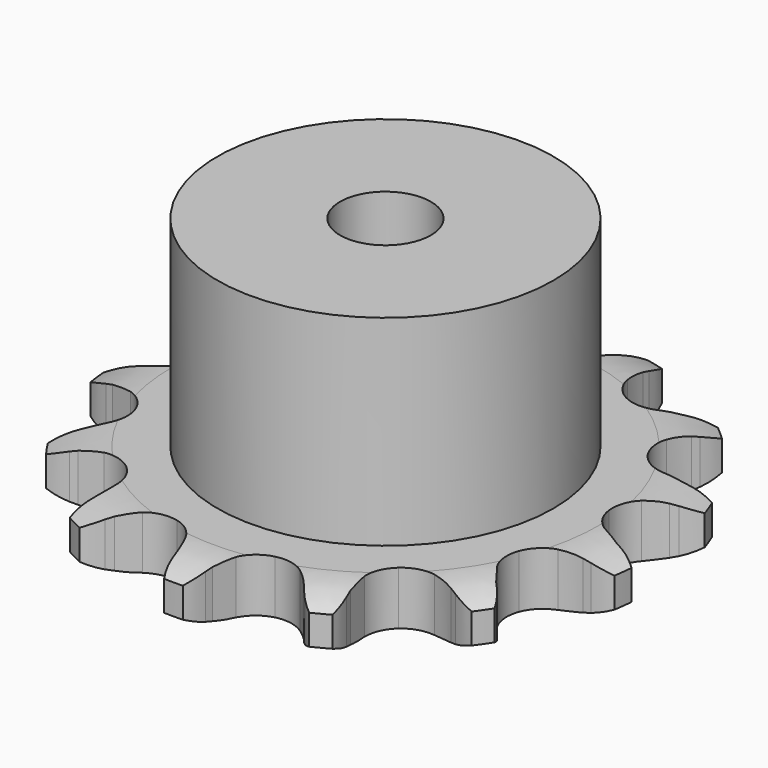
from build123d import *

# Parameters (mm, degrees)
PAD_DEPTH         = 5.9
SKETCH001_R       = 18.5
PAD001_DEPTH      = 28
SKETCH002_R       = 5
POCKET_DEPTH      = 0.0010001
POCKET_DEPTH_BACK = 28.001


with BuildPart() as part:
    # Sprocket → Pad (new body)
    with BuildSketch(Plane.XY):
        with BuildLine():
            ThreePointArc((-7.2883651048, 29.5700596196), (-5.7787429586, 28.3698168407), (-4.6876669733, 26.7795039951))
            Line((-4.6876669733, 26.7795039951), (-4.3368425965, 26.0577496804))
            ThreePointArc((-4.3368425965, 26.0577496804), (-3.7438457459, 25.0030333936), (-3.029350888, 24.0265249151))
            ThreePointArc((-3.029350888, 24.0265249151), (-1.6738886932, 22.9755578023), (0, 22.6015173273))
            ThreePointArc((0, 22.6015173273), (1.6738886932, 22.9755578023), (3.029350888, 24.0265249151))
            ThreePointArc((3.029350888, 24.0265249151), (3.7438457459, 25.0030333936), (4.3368425965, 26.0577496804))
            Line((4.3368425965, 26.0577496804), (4.6876669733, 26.7795039951))
            ThreePointArc((4.6876669733, 26.7795039951), (5.7787429586, 28.3698168407), (7.2883651048, 29.5700596196))
            ThreePointArc((7.2883651048, 29.5700596196), (8.0672884991, 27.8057410264), (8.2943330746, 25.8905406418))
            Line((8.2943330746, 25.8905406418), (8.2695566784, 25.0884227176))
            ThreePointArc((8.2695566784, 25.0884227176), (8.3044782145, 23.8789384487), (8.4833258741, 22.6822408155))
            ThreePointArc((8.4833258741, 22.6822408155), (9.1951192717, 21.1217409619), (10.5034488253, 20.0126497063))
            ThreePointArc((10.5034488253, 20.0126497063), (12.159428931, 19.5659512356), (13.8480398694, 19.8666217077))
            Line((13.8480398694, 19.8666217077), (15.9497234972, 21.0575602214))
            ThreePointArc((15.9497234972, 21.0575602214), (16.2680365045, 21.3019814928), (16.5957790101, 21.5336057112))
            ThreePointArc((16.5957790101, 21.5336057112), (18.3009340459, 22.4347095101), (20.1954187031, 22.7959153186))
            ThreePointArc((20.1954187031, 22.7959153186), (20.065201383, 20.8717050385), (19.3762013727, 19.0703664423))
            Line((19.3762013727, 19.0703664423), (18.9815001773, 18.3716404585))
            ThreePointArc((18.9815001773, 18.3716404585), (18.4503462959, 17.2844664776), (18.0525749137, 16.1417286957))
            ThreePointArc((18.0525749137, 16.1417286957), (17.9576362247, 14.4291878117), (18.6006841051, 12.8391252163))
            ThreePointArc((18.6006841051, 12.8391252163), (19.8593905377, 11.6740210362), (21.4943098036, 11.1555148858))
            Line((21.4943098036, 11.1555148858), (23.9087149597, 11.2333374867))
            ThreePointArc((23.9087149597, 11.2333374867), (24.3041553586, 11.3018343439), (24.7019980766, 11.3546178669))
            ThreePointArc((24.7019980766, 11.3546178669), (26.6306016934, 11.3600805983), (28.4759452577, 10.7995015387))
            ThreePointArc((28.4759452577, 10.7995015387), (27.466418442, 9.1562129576), (26.0192154448, 7.8814011137))
            Line((26.0192154448, 7.8814011137), (25.3450107374, 7.4461367726))
            ThreePointArc((25.3450107374, 7.4461367726), (24.3694623916, 6.7303315368), (23.4861965976, 5.9033410606))
            ThreePointArc((23.4861965976, 5.9033410606), (22.6062751315, 4.4310816245), (22.4367268189, 2.7243118674))
            ThreePointArc((22.4367268189, 2.7243118674), (23.0098051039, 1.1077133046), (24.2164923964, -0.111185958))
            Line((24.2164923964, -0.111185958), (26.3905079562, -1.1643074898))
            ThreePointArc((26.3905079562, -1.1643074898), (26.7724851169, -1.2874268513), (27.149287075, -1.4255760928))
            ThreePointArc((27.149287075, -1.4255760928), (28.8595194265, -2.3170058747), (30.2329759262, -3.6709478957))
            ThreePointArc((30.2329759262, -3.6709478957), (28.5754100421, -4.6568571676), (26.701540824, -5.1130982289))
            Line((26.701540824, -5.1130982289), (25.9022847781, -5.1851871123))
            ThreePointArc((25.9022847781, -5.1851871123), (24.7058283373, -5.3656412497), (23.5394136804, -5.6874308685))
            ThreePointArc((23.5394136804, -5.6874308685), (22.0760888409, -6.5821319627), (21.1327858103, -8.0146084988))
            ThreePointArc((21.1327858103, -8.0146084988), (20.8889506189, -9.7123581958), (21.3909684215, -11.3524154387))
            Line((21.3909684215, -11.3524154387), (22.82655362, -13.2952236518))
            ThreePointArc((22.82655362, -13.2952236518), (23.1075611783, -13.5817540701), (23.3770015889, -13.8791877496))
            ThreePointArc((23.3770015889, -13.8791877496), (24.4770690539, -15.4632942248), (25.0639961568, -17.3004274068))
            ThreePointArc((25.0639961568, -17.3004274068), (23.1381195726, -17.4030974369), (21.266864989, -16.9362483867))
            Line((21.266864989, -16.9362483867), (20.5256575325, -16.628647118))
            ThreePointArc((20.5256575325, -16.628647118), (19.3823867484, -16.2324102889), (18.2000347697, -15.9752809266))
            ThreePointArc((18.2000347697, -15.9752809266), (16.4885366425, -16.0874584404), (14.9875782503, -16.9174786444))
            ThreePointArc((14.9875782503, -16.9174786444), (13.9826892863, -18.30744548), (13.6650313703, -19.9929433538))
            Line((13.6650313703, -19.9929433538), (14.0333109392, -22.3803642999))
            ThreePointArc((14.0333109392, -22.3803642999), (14.1489734501, -22.7646651093), (14.2493267622, -23.1532447553))
            ThreePointArc((14.2493267622, -23.1532447553), (14.4872171417, -25.0671282209), (14.1531569218, -26.9665874918))
            ThreePointArc((14.1531569218, -26.9665874918), (12.4001647536, -26.1624978134), (10.9602066784, -24.8795081431))
            Line((10.9602066784, -24.8795081431), (10.4468495072, -24.2626844658))
            ThreePointArc((10.4468495072, -24.2626844658), (9.6186739385, -23.3805297527), (8.6912472274, -22.6033866474))
            ThreePointArc((8.6912472274, -22.6033866474), (7.1236594077, -21.9073420644), (5.4088971331, -21.9447583103))
            ThreePointArc((5.4088971331, -21.9447583103), (3.8731623479, -22.7085176335), (2.8086003137, -24.0533288877))
            Line((2.8086003137, -24.0533288877), (2.025205842, -26.3384331996))
            ThreePointArc((2.025205842, -26.3384331996), (1.9490264181, -26.7324657159), (1.8573028973, -27.1231724144))
            ThreePointArc((1.8573028973, -27.1231724144), (1.1785183723, -28.9283852332), (0, -30.455027365))
            ThreePointArc((0, -30.455027365), (-1.1785183723, -28.9283852332), (-1.8573028973, -27.1231724144))
            Line((-1.8573028973, -27.1231724144), (-2.025205842, -26.3384331996))
            ThreePointArc((-2.025205842, -26.3384331996), (-2.3485611531, -25.172451616), (-2.8086003137, -24.0533288877))
            ThreePointArc((-2.8086003137, -24.0533288877), (-3.8731623479, -22.7085176335), (-5.4088971331, -21.9447583103))
            ThreePointArc((-5.4088971331, -21.9447583103), (-7.1236594077, -21.9073420644), (-8.6912472274, -22.6033866474))
            Line((-8.6912472274, -22.6033866474), (-10.4468495072, -24.2626844658))
            ThreePointArc((-10.4468495072, -24.2626844658), (-10.697419078, -24.5761805882), (-10.9602066784, -24.8795081431))
            ThreePointArc((-10.9602066784, -24.8795081431), (-12.4001647536, -26.1624978134), (-14.1531569218, -26.9665874918))
            ThreePointArc((-14.1531569218, -26.9665874918), (-14.4872171417, -25.0671282209), (-14.2493267622, -23.1532447553))
            Line((-14.2493267622, -23.1532447553), (-14.0333109392, -22.3803642999))
            ThreePointArc((-14.0333109392, -22.3803642999), (-13.7777691877, -21.1976681751), (-13.6650313703, -19.9929433538))
            ThreePointArc((-13.6650313703, -19.9929433538), (-13.9826892863, -18.30744548), (-14.9875782503, -16.9174786444))
            ThreePointArc((-14.9875782503, -16.9174786444), (-16.4885366425, -16.0874584404), (-18.2000347697, -15.9752809266))
            Line((-18.2000347697, -15.9752809266), (-20.5256575325, -16.628647118))
            ThreePointArc((-20.5256575325, -16.628647118), (-20.8932147812, -16.7897886627), (-21.266864989, -16.9362483867))
            ThreePointArc((-21.266864989, -16.9362483867), (-23.1381195726, -17.4030974369), (-25.0639961568, -17.3004274068))
            ThreePointArc((-25.0639961568, -17.3004274068), (-24.4770690539, -15.4632942248), (-23.3770015889, -13.8791877496))
            Line((-23.3770015889, -13.8791877496), (-22.82655362, -13.2952236518))
            ThreePointArc((-22.82655362, -13.2952236518), (-22.0506563416, -12.3667544148), (-21.3909684215, -11.3524154387))
            ThreePointArc((-21.3909684215, -11.3524154387), (-20.8889506189, -9.7123581958), (-21.1327858103, -8.0146084988))
            ThreePointArc((-21.1327858103, -8.0146084988), (-22.0760888409, -6.5821319627), (-23.5394136804, -5.6874308685))
            Line((-23.5394136804, -5.6874308685), (-25.9022847781, -5.1851871123))
            ThreePointArc((-25.9022847781, -5.1851871123), (-26.3026267686, -5.1570584935), (-26.701540824, -5.1130982289))
            ThreePointArc((-26.701540824, -5.1130982289), (-28.5754100421, -4.6568571676), (-30.2329759262, -3.6709478957))
            ThreePointArc((-30.2329759262, -3.6709478957), (-28.8595194265, -2.3170058747), (-27.149287075, -1.4255760928))
            Line((-27.149287075, -1.4255760928), (-26.3905079562, -1.1643074898))
            ThreePointArc((-26.3905079562, -1.1643074898), (-25.2720038668, -0.7027662537), (-24.2164923964, -0.111185958))
            ThreePointArc((-24.2164923964, -0.111185958), (-23.0098051039, 1.1077133046), (-22.4367268189, 2.7243118674))
            ThreePointArc((-22.4367268189, 2.7243118674), (-22.6062751315, 4.4310816245), (-23.4861965976, 5.9033410606))
            Line((-23.4861965976, 5.9033410606), (-25.3450107374, 7.4461367726))
            ThreePointArc((-25.3450107374, 7.4461367726), (-25.6864239443, 7.6570916272), (-26.0192154448, 7.8814011137))
            ThreePointArc((-26.0192154448, 7.8814011137), (-27.466418442, 9.1562129576), (-28.4759452577, 10.7995015387))
            ThreePointArc((-28.4759452577, 10.7995015387), (-26.6306016934, 11.3600805983), (-24.7019980766, 11.3546178669))
            Line((-24.7019980766, 11.3546178669), (-23.9087149597, 11.2333374867))
            ThreePointArc((-23.9087149597, 11.2333374867), (-22.7038398668, 11.122217187), (-21.4943098036, 11.1555148858))
            ThreePointArc((-21.4943098036, 11.1555148858), (-19.8593905377, 11.6740210362), (-18.6006841051, 12.8391252163))
            ThreePointArc((-18.6006841051, 12.8391252163), (-17.9576362247, 14.4291878117), (-18.0525749137, 16.1417286957))
            Line((-18.0525749137, 16.1417286957), (-18.9815001773, 18.3716404585))
            ThreePointArc((-18.9815001773, 18.3716404585), (-19.1857709493, 18.7170943341), (-19.3762013727, 19.0703664423))
            ThreePointArc((-19.3762013727, 19.0703664423), (-20.065201383, 20.8717050385), (-20.1954187031, 22.7959153186))
            ThreePointArc((-20.1954187031, 22.7959153186), (-18.3009340459, 22.4347095101), (-16.5957790101, 21.5336057112))
            Line((-16.5957790101, 21.5336057112), (-15.9497234972, 21.0575602214))
            ThreePointArc((-15.9497234972, 21.0575602214), (-14.9344997642, 20.3992347073), (-13.8480398694, 19.8666217077))
            ThreePointArc((-13.8480398694, 19.8666217077), (-12.159428931, 19.5659512356), (-10.5034488253, 20.0126497063))
            ThreePointArc((-10.5034488253, 20.0126497063), (-9.1951192717, 21.1217409619), (-8.4833258741, 22.6822408155))
            Line((-8.4833258741, 22.6822408155), (-8.2695566784, 25.0884227176))
            ThreePointArc((-8.2695566784, 25.0884227176), (-8.2898890435, 25.4892362945), (-8.2943330746, 25.8905406418))
            ThreePointArc((-8.2943330746, 25.8905406418), (-8.0672884991, 27.8057410264), (-7.2883651048, 29.5700596196))
        make_face()
    extrude(amount=PAD_DEPTH)

    # Sketch → Groove (revolve, cut)
    with BuildSketch(Plane.XZ):
        with BuildLine():
            Line((23.5334313734, 0), (29.2, 0))
            Line((34.8665686266, 0), (29.2, 0))
            Line((34.8665686266, 5.9), (34.8665686266, 0))
            Line((29.2, 5.9), (34.8665686266, 5.9))
            Line((23.5334313734, 5.9), (29.2, 5.9))
            ThreePointArc((29.2, 4.6), (26.4403197441, 5.5708326483), (23.5334313734, 5.9))
            Line((29.2, 1.3), (29.2, 4.6))
            ThreePointArc((23.5334313734, 0), (26.4403197441, 0.3291673517), (29.2, 1.3))
        make_face()
    revolve(axis=Axis((0, 0, 0), (0, 0, 1)), mode=Mode.SUBTRACT)

    # Sketch001 → Pad001 (join)
    with BuildSketch(Plane.XY):
        Circle(SKETCH001_R)
    extrude(amount=PAD001_DEPTH)

    # Sketch002 → Pocket (cut, two sides)
    with BuildSketch(Plane.XY) as pocket_sk:
        Circle(SKETCH002_R)
    extrude(amount=-POCKET_DEPTH, mode=Mode.SUBTRACT)
    extrude(pocket_sk.sketch, amount=POCKET_DEPTH_BACK, mode=Mode.SUBTRACT)


solid = part.part
